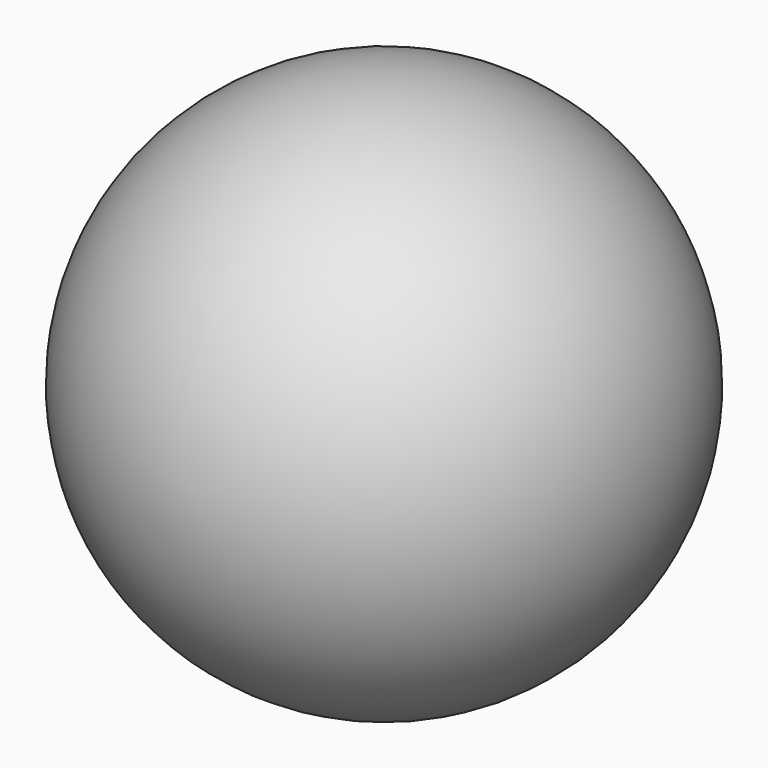
from build123d import *

# Parameters (mm, degrees)
F4_DEPTH = 30.001
F5_W     = 6
F5_H     = 7
F6_DEPTH = 13


with BuildPart() as f1:
    # F0 (on Right) → F1 (revolve)
    with BuildSketch(Plane.YZ):
        with BuildLine():
            Line((-30, 0), (0, 0))
            ThreePointArc((0, 0), (-15, 15), (-30, 0))
        make_face()
    revolve(axis=Axis((0, -15, 0), (0, -1, 0)))

    # F3 (on offset) → F4 (cut, through all)
    with BuildSketch(Plane.XY.offset(15)):
        with BuildLine():
            Line((15, 0), (0, 0))
            Line((0, 0), (-15, 0))
            ThreePointArc((-15, 0), (0, -3), (15, 0))
        make_face()
    extrude(amount=-F4_DEPTH, mode=Mode.SUBTRACT)

    # F5 (on Front) → F6 (cut)
    with BuildSketch(Plane.XZ):
        Rectangle(F5_W, F5_H)
    extrude(amount=F6_DEPTH, mode=Mode.SUBTRACT)


solid = f1.part
